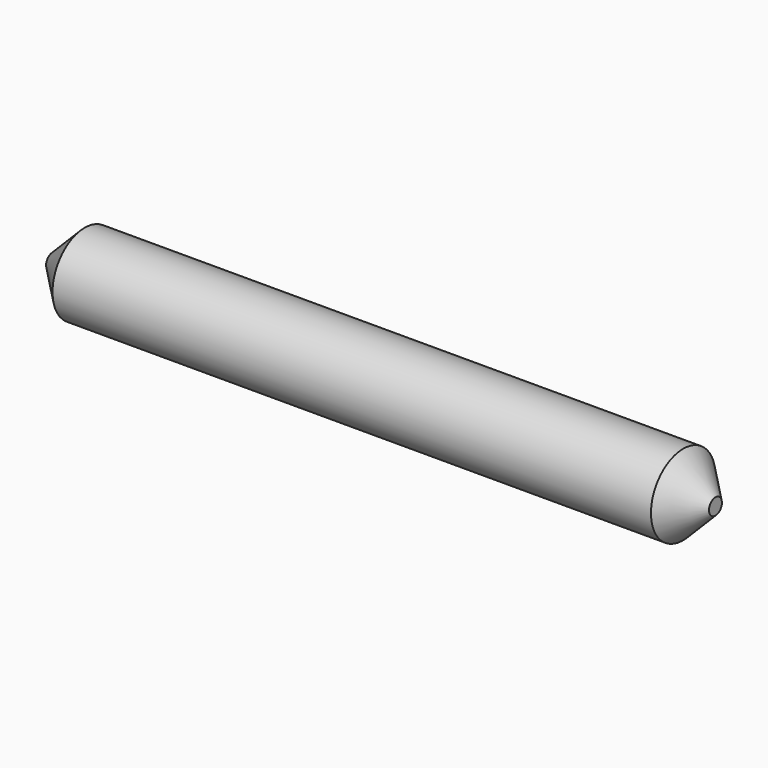
from build123d import *

# Parameters (mm, degrees)
F0_R     = 3.175
F1_DEPTH = 52.197
F2_SIZE2 = 2.54
F2_SIZE  = 2.54


with BuildPart() as f1:
    # F0 (on Right) → F1 (new body)
    with BuildSketch(Plane.YZ):
        Circle(F0_R)
    extrude(amount=-F1_DEPTH)

    # F2
    f2_edges = [f1.edges().sort_by_distance(p)[0] for p in [
        (0, -3.175, 0),
        (-52.197, -3.175, 0),
    ]]
    chamfer(f2_edges, length=F2_SIZE, length2=F2_SIZE2)


solid = f1.part
